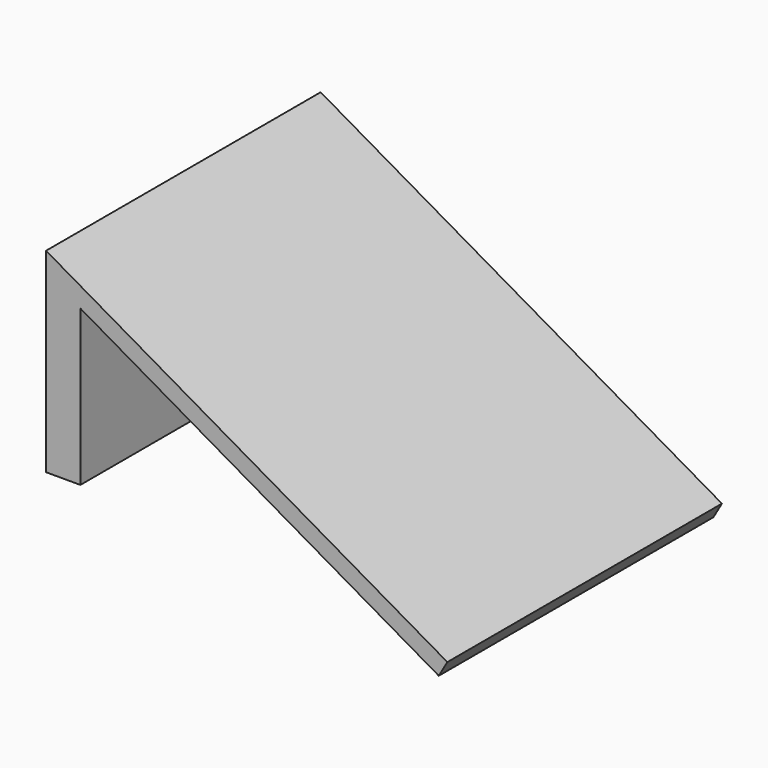
from build123d import *

# Parameters (mm, degrees)
PAD_DEPTH     = 20
SKETCH001_R   = 1.6
SKETCH001_W   = 8.873669
SKETCH001_H   = 5
SKETCH001_W_2 = 10.362093
POCKET_DEPTH  = 5
FILLET_R      = 4


with BuildPart() as part:
    # Sketch → Pad (new body)
    with BuildSketch(Plane.XZ):
        Polygon((0, 11.366025), (23.382686, -2.133975), (22.882686, -3), (2, 9.056624), (2, 0), (-6, 0), (-6, 2), (0, 2), align=None)
    extrude(amount=PAD_DEPTH)

    # Sketch001 (on Face7 of Pad) → Pocket (cut)
    with BuildSketch(Plane(origin=(0, 0, 2), x_dir=(-1, 0, 0), z_dir=(0, 0, 1))):
        with Locations((3, 10)):
            Circle(SKETCH001_R)
        with Locations((4.436834, 2.5)):
            Rectangle(SKETCH001_W, SKETCH001_H)
        with Locations((5.181046, 17.5)):
            Rectangle(SKETCH001_W_2, SKETCH001_H)
    extrude(amount=-POCKET_DEPTH, mode=Mode.SUBTRACT)

    # Fillet
    fillet_edges = [part.edges().sort_by_distance(p)[0] for p in [
        (-6, -5, 1),
        (-6, -15, 1),
    ]]
    fillet(fillet_edges, radius=FILLET_R)


solid = part.part
